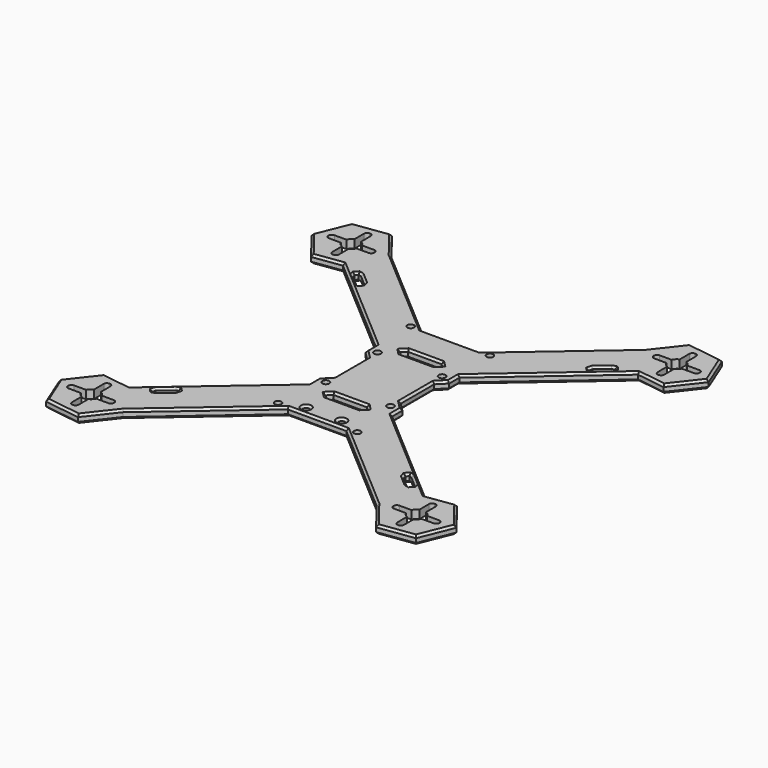
from build123d import *

# Parameters (mm, degrees)
F0_R     = 1.6
F0_R_2   = 1.5
F0_R_3   = 1.65
F1_DEPTH = 4
F2_SIZE  = 1
F3_SIZE  = 1
F4_SIZE  = 1
F5_SIZE  = 1
F6_SIZE  = 1
F7_SIZE  = 1
F8_SIZE  = 1
F9_SIZE  = 1
F10_SIZE = 1


with BuildPart() as f1:
    # F0 (on Top) → F1 (new body)
    with BuildSketch(Plane.XY):
        Polygon((71.288442, 93.83905), (60.629061, 80.187031), (14, 40), (0, 40), (-14, 40), (-60.629061, 80.187031), (-71.288442, 93.83905), (-88.441127, 91.433764), (-94.934431, 75.376461), (-84.27505, 61.724442), (-70.544458, 63.649855), (-20, 20.088357), (-20, 14), (-16, 10), (-16, 0), (-16, -10), (-20, -14), (-20, -20.088357), (-70.544458, -63.649855), (-84.27505, -61.724442), (-94.934431, -75.376461), (-88.441127, -91.433764), (-71.288442, -93.83905), (-60.629061, -80.187031), (-14, -40), (0, -40), (14, -40), (60.629061, -80.187031), (71.288442, -93.83905), (88.441127, -91.433764), (94.934431, -75.376461), (84.27505, -61.724442), (70.544458, -63.649855), (20, -20.088357), (20, -14), (16, -10), (16, 0), (16, 10), (20, 14), (20, 20.088357), (70.544458, 63.649855), (84.27505, 61.724442), (94.934431, 75.376461), (88.441127, 91.433764), align=None)
        with BuildLine():
            ThreePointArc((-74.061195, -79.381746), (-74.917963, -80.645528), (-76.181746, -81.502297))
            Line((-76.181746, -81.502297), (-76.181746, -87.281746))
            ThreePointArc((-76.181746, -87.281746), (-76.621086, -88.342406), (-77.681746, -88.781746))
            Line((-77.681746, -88.781746), (-77.881746, -88.781746))
            ThreePointArc((-77.881746, -88.781746), (-78.942406, -88.342406), (-79.381746, -87.281746))
            Line((-79.381746, -87.281746), (-79.381746, -81.502297))
            ThreePointArc((-79.381746, -81.502297), (-80.645528, -80.645528), (-81.502297, -79.381746))
            Line((-81.502297, -79.381746), (-87.281746, -79.381746))
            ThreePointArc((-87.281746, -79.381746), (-88.342406, -78.942406), (-88.781746, -77.881746))
            Line((-88.781746, -77.881746), (-88.781746, -77.681746))
            ThreePointArc((-88.781746, -77.681746), (-88.342406, -76.621086), (-87.281746, -76.181746))
            Line((-87.281746, -76.181746), (-81.502297, -76.181746))
            ThreePointArc((-81.502297, -76.181746), (-80.645528, -74.917963), (-79.381746, -74.061195))
            Line((-79.381746, -74.061195), (-79.381746, -68.281746))
            ThreePointArc((-79.381746, -68.281746), (-78.942406, -67.221086), (-77.881746, -66.781746))
            Line((-77.881746, -66.781746), (-77.681746, -66.781746))
            ThreePointArc((-77.681746, -66.781746), (-76.621086, -67.221086), (-76.181746, -68.281746))
            Line((-76.181746, -68.281746), (-76.181746, -74.061195))
            ThreePointArc((-76.181746, -74.061195), (-74.917963, -74.917963), (-74.061195, -76.181746))
            Line((-74.061195, -76.181746), (-68.281746, -76.181746))
            ThreePointArc((-68.281746, -76.181746), (-67.221086, -76.621086), (-66.781746, -77.681746))
            Line((-66.781746, -77.681746), (-66.781746, -77.881746))
            ThreePointArc((-66.781746, -77.881746), (-67.221086, -78.942406), (-68.281746, -79.381746))
            Line((-68.281746, -79.381746), (-74.061195, -79.381746))
        make_face(mode=Mode.SUBTRACT)
        Polygon((-54.556016, -56.508275), (-59.864707, -61.083544), (-61.313596, -61.471773), (-62.374256, -60.411113), (-61.986028, -58.962224), (-56.285129, -54.048932), (-55.177436, -53.752126), (-54.116776, -54.812786), align=None, mode=Mode.SUBTRACT)
        with Locations((-18.936177, -39.63372)):
            Circle(F0_R, mode=Mode.SUBTRACT)
        with Locations((-8.5, -35.924539)):
            Circle(F0_R_2, mode=Mode.SUBTRACT)
        with Locations((-15.45, -15.45)):
            Circle(F0_R_3, mode=Mode.SUBTRACT)
        with BuildLine():
            Line((76.181746, -74.061195), (76.181746, -68.281746))
            ThreePointArc((76.181746, -68.281746), (76.621086, -67.221086), (77.681746, -66.781746))
            Line((77.681746, -66.781746), (77.881746, -66.781746))
            ThreePointArc((77.881746, -66.781746), (78.942406, -67.221086), (79.381746, -68.281746))
            Line((79.381746, -68.281746), (79.381746, -74.061195))
            ThreePointArc((79.381746, -74.061195), (80.645528, -74.917963), (81.502297, -76.181746))
            Line((81.502297, -76.181746), (87.281746, -76.181746))
            ThreePointArc((87.281746, -76.181746), (88.342406, -76.621086), (88.781746, -77.681746))
            Line((88.781746, -77.681746), (88.781746, -77.881746))
            ThreePointArc((88.781746, -77.881746), (88.342406, -78.942406), (87.281746, -79.381746))
            Line((87.281746, -79.381746), (81.502297, -79.381746))
            ThreePointArc((81.502297, -79.381746), (80.645528, -80.645528), (79.381746, -81.502297))
            Line((79.381746, -81.502297), (79.381746, -87.281746))
            ThreePointArc((79.381746, -87.281746), (78.942406, -88.342406), (77.881746, -88.781746))
            Line((77.881746, -88.781746), (77.681746, -88.781746))
            ThreePointArc((77.681746, -88.781746), (76.621086, -88.342406), (76.181746, -87.281746))
            Line((76.181746, -87.281746), (76.181746, -81.502297))
            ThreePointArc((76.181746, -81.502297), (74.917963, -80.645528), (74.061195, -79.381746))
            Line((74.061195, -79.381746), (68.281746, -79.381746))
            ThreePointArc((68.281746, -79.381746), (67.221086, -78.942406), (66.781746, -77.881746))
            Line((66.781746, -77.881746), (66.781746, -77.681746))
            ThreePointArc((66.781746, -77.681746), (67.221086, -76.621086), (68.281746, -76.181746))
            Line((68.281746, -76.181746), (74.061195, -76.181746))
            ThreePointArc((74.061195, -76.181746), (74.917963, -74.917963), (76.181746, -74.061195))
        make_face(mode=Mode.SUBTRACT)
        Polygon((54.556016, -56.508275), (54.116776, -54.812786), (55.177436, -53.752126), (56.285129, -54.048932), (61.986028, -58.962224), (62.374256, -60.411113), (61.313596, -61.471773), (59.864707, -61.083544), align=None, mode=Mode.SUBTRACT)
        with Locations((8.5, -35.924539)):
            Circle(F0_R_2, mode=Mode.SUBTRACT)
        with Locations((18.936177, -39.63372)):
            Circle(F0_R, mode=Mode.SUBTRACT)
        Polygon((0, -20.171934), (8, -20.171934), (10.12132, -22.293254), (8, -24.414574), (0, -24.414574), (-8, -24.414574), (-10.12132, -22.293254), (-8, -20.171934), align=None, mode=Mode.SUBTRACT)
        with Locations((15.45, -15.45)):
            Circle(F0_R_3, mode=Mode.SUBTRACT)
        with Locations((-15.45, 15.45)):
            Circle(F0_R_3, mode=Mode.SUBTRACT)
        with Locations((-18.936177, 39.63372)):
            Circle(F0_R, mode=Mode.SUBTRACT)
        Polygon((-54.116776, 54.812786), (-55.177436, 53.752126), (-56.285129, 54.048932), (-61.986028, 58.962224), (-62.374256, 60.411113), (-61.313596, 61.471773), (-59.864707, 61.083544), (-54.556016, 56.508275), align=None, mode=Mode.SUBTRACT)
        with BuildLine():
            Line((-79.381746, 81.502297), (-79.381746, 87.281746))
            ThreePointArc((-79.381746, 87.281746), (-78.942406, 88.342406), (-77.881746, 88.781746))
            Line((-77.881746, 88.781746), (-77.681746, 88.781746))
            ThreePointArc((-77.681746, 88.781746), (-76.621086, 88.342406), (-76.181746, 87.281746))
            Line((-76.181746, 87.281746), (-76.181746, 81.502297))
            ThreePointArc((-76.181746, 81.502297), (-74.917963, 80.645528), (-74.061195, 79.381746))
            Line((-74.061195, 79.381746), (-68.281746, 79.381746))
            ThreePointArc((-68.281746, 79.381746), (-67.221086, 78.942406), (-66.781746, 77.881746))
            Line((-66.781746, 77.881746), (-66.781746, 77.681746))
            ThreePointArc((-66.781746, 77.681746), (-67.221086, 76.621086), (-68.281746, 76.181746))
            Line((-68.281746, 76.181746), (-74.061195, 76.181746))
            ThreePointArc((-74.061195, 76.181746), (-74.917963, 74.917963), (-76.181746, 74.061195))
            Line((-76.181746, 74.061195), (-76.181746, 68.281746))
            ThreePointArc((-76.181746, 68.281746), (-76.621086, 67.221086), (-77.681746, 66.781746))
            Line((-77.681746, 66.781746), (-77.881746, 66.781746))
            ThreePointArc((-77.881746, 66.781746), (-78.942406, 67.221086), (-79.381746, 68.281746))
            Line((-79.381746, 68.281746), (-79.381746, 74.061195))
            ThreePointArc((-79.381746, 74.061195), (-80.645528, 74.917963), (-81.502297, 76.181746))
            Line((-81.502297, 76.181746), (-87.281746, 76.181746))
            ThreePointArc((-87.281746, 76.181746), (-88.342406, 76.621086), (-88.781746, 77.681746))
            Line((-88.781746, 77.681746), (-88.781746, 77.881746))
            ThreePointArc((-88.781746, 77.881746), (-88.342406, 78.942406), (-87.281746, 79.381746))
            Line((-87.281746, 79.381746), (-81.502297, 79.381746))
            ThreePointArc((-81.502297, 79.381746), (-80.645528, 80.645528), (-79.381746, 81.502297))
        make_face(mode=Mode.SUBTRACT)
        Polygon((10.12132, 22.293254), (8, 20.171934), (0, 20.171934), (-8, 20.171934), (-10.12132, 22.293254), (-8, 24.414574), (0, 24.414574), (8, 24.414574), align=None, mode=Mode.SUBTRACT)
        with Locations((15.45, 15.45)):
            Circle(F0_R_3, mode=Mode.SUBTRACT)
        with Locations((18.936177, 39.63372)):
            Circle(F0_R, mode=Mode.SUBTRACT)
        Polygon((62.374256, 60.411113), (61.986028, 58.962224), (56.285129, 54.048932), (55.177436, 53.752126), (54.116776, 54.812786), (54.556016, 56.508275), (59.864707, 61.083544), (61.313596, 61.471773), align=None, mode=Mode.SUBTRACT)
        with BuildLine():
            Line((77.881746, 66.781746), (77.681746, 66.781746))
            ThreePointArc((77.681746, 66.781746), (76.621086, 67.221086), (76.181746, 68.281746))
            Line((76.181746, 68.281746), (76.181746, 74.061195))
            ThreePointArc((76.181746, 74.061195), (74.917963, 74.917963), (74.061195, 76.181746))
            Line((74.061195, 76.181746), (68.281746, 76.181746))
            ThreePointArc((68.281746, 76.181746), (67.221086, 76.621086), (66.781746, 77.681746))
            Line((66.781746, 77.681746), (66.781746, 77.881746))
            ThreePointArc((66.781746, 77.881746), (67.221086, 78.942406), (68.281746, 79.381746))
            Line((68.281746, 79.381746), (74.061195, 79.381746))
            ThreePointArc((74.061195, 79.381746), (74.917963, 80.645528), (76.181746, 81.502297))
            Line((76.181746, 81.502297), (76.181746, 87.281746))
            ThreePointArc((76.181746, 87.281746), (76.621086, 88.342406), (77.681746, 88.781746))
            Line((77.681746, 88.781746), (77.881746, 88.781746))
            ThreePointArc((77.881746, 88.781746), (78.942406, 88.342406), (79.381746, 87.281746))
            Line((79.381746, 87.281746), (79.381746, 81.502297))
            ThreePointArc((79.381746, 81.502297), (80.645528, 80.645528), (81.502297, 79.381746))
            Line((81.502297, 79.381746), (87.281746, 79.381746))
            ThreePointArc((87.281746, 79.381746), (88.342406, 78.942406), (88.781746, 77.881746))
            Line((88.781746, 77.881746), (88.781746, 77.681746))
            ThreePointArc((88.781746, 77.681746), (88.342406, 76.621086), (87.281746, 76.181746))
            Line((87.281746, 76.181746), (81.502297, 76.181746))
            ThreePointArc((81.502297, 76.181746), (80.645528, 74.917963), (79.381746, 74.061195))
            Line((79.381746, 74.061195), (79.381746, 68.281746))
            ThreePointArc((79.381746, 68.281746), (78.942406, 67.221086), (77.881746, 66.781746))
        make_face(mode=Mode.SUBTRACT)
    extrude(amount=F1_DEPTH)

    # F2
    f2_edges = [f1.edges().sort_by_distance(p)[0] for p in [
        (9.06066, -21.232594, 0),
        (9.06066, -23.353914, 0),
        (0, -20.171934, 0),
        (-9.06066, -21.232594, 0),
        (-9.06066, -23.353914, 0),
        (0, -24.414574, 0),
        (0, 24.414574, 0),
        (9.06066, 23.353914, 0),
        (9.06066, 21.232594, 0),
        (0, 20.171934, 0),
        (-9.06066, 21.232594, 0),
        (-9.06066, 23.353914, 0),
    ]]
    chamfer(f2_edges, length=F2_SIZE)

    # F3
    f3_edges = [f1.edges().sort_by_distance(p)[0] for p in [
        (-9.06066, 23.353914, 4),
        (-9.06066, 21.232594, 4),
        (0, 20.171934, 4),
        (0, 24.414574, 4),
        (9.06066, 23.353914, 4),
        (9.06066, 21.232594, 4),
        (-9.06066, -21.232594, 4),
        (-9.06066, -23.353914, 4),
        (0, -20.171934, 4),
        (0, -24.414574, 4),
        (9.06066, -23.353914, 4),
        (9.06066, -21.232594, 4),
    ]]
    chamfer(f3_edges, length=F3_SIZE)

    # F4
    f4_edges = [f1.edges().sort_by_distance(p)[0] for p in [
        (57.210362, 58.79591, 4),
        (60.589152, 61.277659, 4),
        (61.843926, 60.941443, 4),
        (62.180142, 59.686668, 4),
        (59.135578, 56.505578, 4),
        (55.731282, 53.900529, 4),
        (54.647106, 54.282456, 4),
        (54.336396, 55.660531, 4),
        (59.135578, 56.505578, 0),
        (55.731282, 53.900529, 0),
        (54.647106, 54.282456, 0),
        (54.336396, 55.660531, 0),
        (57.210362, 58.79591, 0),
        (60.589152, 61.277659, 0),
        (61.843926, 60.941443, 0),
        (62.180142, 59.686668, 0),
    ]]
    chamfer(f4_edges, length=F4_SIZE)

    # F5
    f5_edges = [f1.edges().sort_by_distance(p)[0] for p in [
        (54.336396, -55.660531, 4),
        (57.210362, -58.79591, 4),
        (54.647106, -54.282456, 4),
        (55.731282, -53.900529, 4),
        (59.135578, -56.505578, 4),
        (62.180142, -59.686668, 4),
        (61.843926, -60.941443, 4),
        (60.589152, -61.277659, 4),
        (62.180142, -59.686668, 0),
        (61.843926, -60.941443, 0),
        (59.135578, -56.505578, 0),
        (60.589152, -61.277659, 0),
        (57.210362, -58.79591, 0),
        (54.336396, -55.660531, 0),
        (54.647106, -54.282456, 0),
        (55.731282, -53.900529, 0),
    ]]
    chamfer(f5_edges, length=F5_SIZE)

    # F6
    f6_edges = [f1.edges().sort_by_distance(p)[0] for p in [
        (-57.210362, 58.79591, 4),
        (-54.336396, 55.660531, 4),
        (-60.589152, 61.277659, 4),
        (-61.843926, 60.941443, 4),
        (-62.180142, 59.686668, 4),
        (-59.135578, 56.505578, 4),
        (-55.731282, 53.900529, 4),
        (-54.647106, 54.282456, 4),
        (-59.135578, 56.505578, 0),
        (-62.180142, 59.686668, 0),
        (-61.843926, 60.941443, 0),
        (-60.589152, 61.277659, 0),
        (-57.210362, 58.79591, 0),
        (-54.336396, 55.660531, 0),
        (-54.647106, 54.282456, 0),
        (-55.731282, 53.900529, 0),
    ]]
    chamfer(f6_edges, length=F6_SIZE)

    # F7
    f7_edges = [f1.edges().sort_by_distance(p)[0] for p in [
        (-62.180142, -59.686668, 4),
        (-61.843926, -60.941443, 4),
        (-59.135578, -56.505578, 4),
        (-60.589152, -61.277659, 4),
        (-57.210362, -58.79591, 4),
        (-55.731282, -53.900529, 4),
        (-54.647106, -54.282456, 4),
        (-54.336396, -55.660531, 4),
        (-60.589152, -61.277659, 0),
        (-61.843926, -60.941443, 0),
        (-57.210362, -58.79591, 0),
        (-62.180142, -59.686668, 0),
        (-59.135578, -56.505578, 0),
        (-55.731282, -53.900529, 0),
        (-54.647106, -54.282456, 0),
        (-54.336396, -55.660531, 0),
    ]]
    chamfer(f7_edges, length=F7_SIZE)

    # F8
    f8_edges = [f1.edges().sort_by_distance(p)[0] for p in [
        (-10, -35.924539, 4),
        (7, -35.924539, 4),
        (-10, -35.924539, 0),
        (7, -35.924539, 0),
    ]]
    chamfer(f8_edges, length=F8_SIZE)

    # F9
    f9_edges = [f1.edges().sort_by_distance(p)[0] for p in [
        (37.31453, 60.093516, 4),
        (45.272229, 41.869106, 4),
        (45.272229, 41.869106, 0),
        (37.31453, 60.093516, 0),
        (0, 40, 0),
        (0, 40, 4),
        (-37.31453, 60.093516, 0),
        (-37.31453, 60.093516, 4),
        (-45.272229, 41.869106, 4),
        (-45.272229, 41.869106, 0),
        (-20, 17.044179, 0),
        (-20, 17.044179, 4),
        (-18, 12, 4),
        (-18, 12, 0),
        (-16, 0, 4),
        (-16, 0, 0),
        (-18, -12, 4),
        (-18, -12, 0),
        (-20, -17.044179, 0),
        (-20, -17.044179, 4),
        (-45.272229, -41.869106, 4),
        (-45.272229, -41.869106, 0),
        (-37.31453, -60.093516, 4),
        (-37.31453, -60.093516, 0),
        (0, -40, 4),
        (0, -40, 0),
        (37.31453, -60.093516, 4),
        (37.31453, -60.093516, 0),
        (45.272229, -41.869106, 0),
        (45.272229, -41.869106, 4),
        (20, -17.044179, 4),
        (20, -17.044179, 0),
        (18, -12, 0),
        (18, -12, 4),
        (16, 0, 0),
        (16, 0, 4),
        (18, 12, 0),
        (18, 12, 4),
        (20, 17.044179, 0),
        (20, 17.044179, 4),
    ]]
    chamfer(f9_edges, length=F9_SIZE)

    # F10
    f10_edges = [f1.edges().sort_by_distance(p)[0] for p in [
        (77.409754, -62.687148, 0),
        (77.409754, -62.687148, 4),
        (89.604741, -68.550451, 0),
        (89.604741, -68.550451, 4),
        (91.687779, -83.405112, 4),
        (91.687779, -83.405112, 0),
        (79.864784, -92.636407, 4),
        (79.864784, -92.636407, 0),
        (65.958751, -87.01304, 4),
        (65.958751, -87.01304, 0),
        (-65.958751, -87.01304, 4),
        (-65.958751, -87.01304, 0),
        (-79.864784, -92.636407, 4),
        (-79.864784, -92.636407, 0),
        (-91.687779, -83.405112, 0),
        (-91.687779, -83.405112, 4),
        (-89.604741, -68.550451, 0),
        (-89.604741, -68.550451, 4),
        (-77.409754, -62.687148, 0),
        (-77.409754, -62.687148, 4),
        (-89.604741, 68.550451, 4),
        (-89.604741, 68.550451, 0),
        (-91.687779, 83.405112, 4),
        (-91.687779, 83.405112, 0),
        (-79.864784, 92.636407, 4),
        (-79.864784, 92.636407, 0),
        (-77.409754, 62.687148, 4),
        (-77.409754, 62.687148, 0),
        (-65.958751, 87.01304, 4),
        (-65.958751, 87.01304, 0),
        (91.687779, 83.405112, 4),
        (91.687779, 83.405112, 0),
        (89.604741, 68.550451, 4),
        (89.604741, 68.550451, 0),
        (79.864784, 92.636407, 0),
        (79.864784, 92.636407, 4),
        (65.958751, 87.01304, 4),
        (65.958751, 87.01304, 0),
        (77.409754, 62.687148, 4),
        (77.409754, 62.687148, 0),
    ]]
    chamfer(f10_edges, length=F10_SIZE)


solid = f1.part
